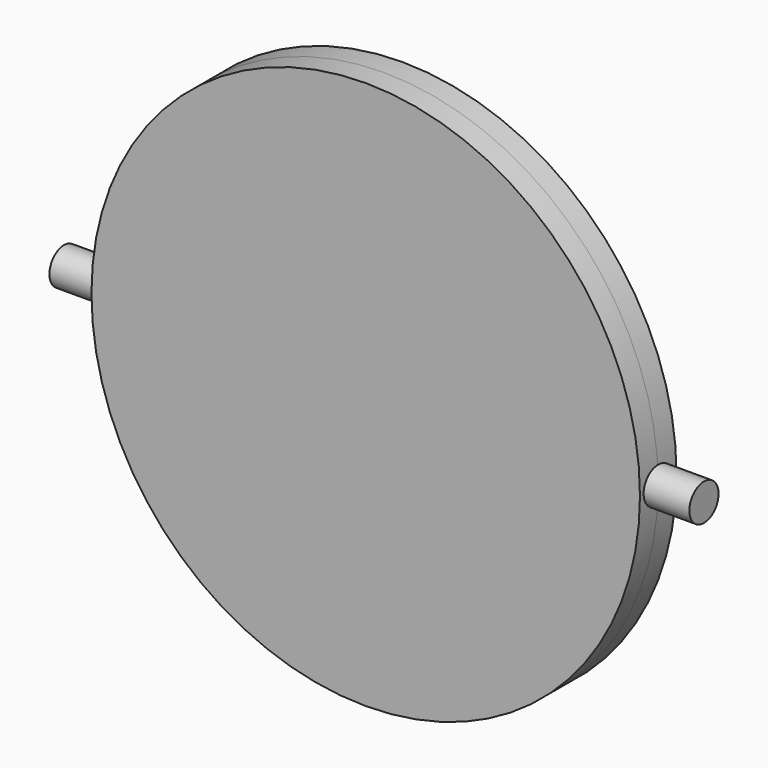
from build123d import *

# Parameters (mm, degrees)
F1_W     = 10
F1_H     = 4
F2_W     = 10
F2_H     = 4
F0_R     = 60
F5_DEPTH = 5


with BuildPart() as f3:
    # F1 (on Front) → F3 (revolve)
    with BuildSketch(Plane.XZ):
        with Locations((-65, 2)):
            Rectangle(F1_W, F1_H)
    revolve(axis=Axis((-65, 0, 0), (-1, 0, 0)))


with BuildPart() as f4:
    # F2 (on Front) → F4 (revolve)
    with BuildSketch(Plane.XZ):
        with Locations((65, 2)):
            Rectangle(F2_W, F2_H)
    revolve(axis=Axis((65, 0, 0), (1, 0, 0)))


with BuildPart() as f5:
    # F0 (on Front) → F5 (new body)
    with BuildSketch(Plane.XZ):
        Circle(F0_R)
    extrude(amount=F5_DEPTH)


with BuildPart() as f6_1:
    # F6: instance of F5
    add(f5.part.mirror(Plane.XZ))


solid = Compound([f3.part, f4.part, f5.part, f6_1.part])
